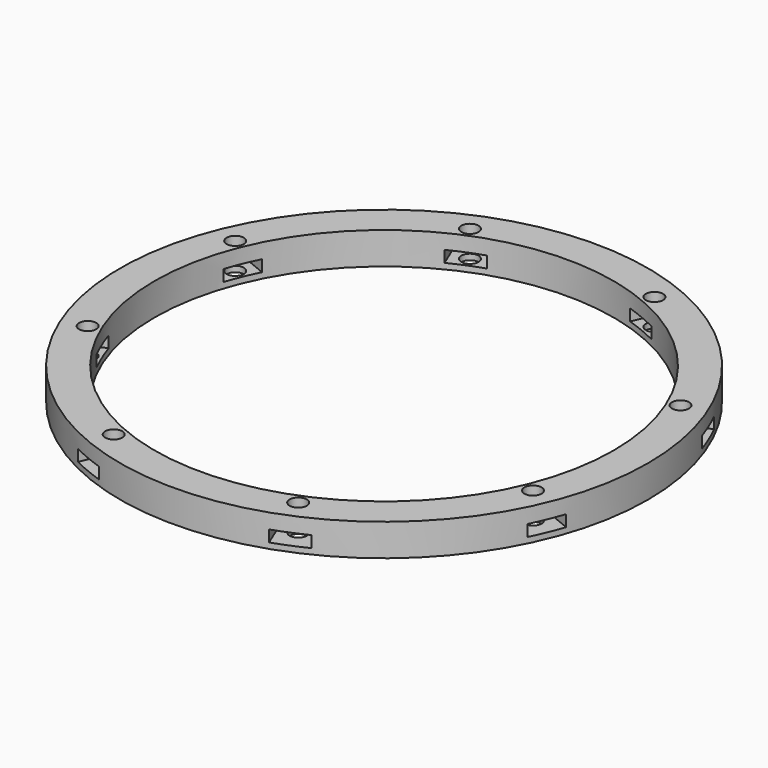
from build123d import *

# Parameters (mm, degrees)
BOX572_W                     = 6
BOX572_H                     = 8
BOX572_DEPTH                 = 2
BOX572_PLACEMENT_ANGLE       = 45
BOX570_W                     = 6
BOX570_H                     = 8
BOX570_DEPTH                 = 2
BOX569_W                     = 6
BOX569_H                     = 8
BOX569_DEPTH                 = 2
BOX573_W                     = 6
BOX573_H                     = 8
BOX573_DEPTH                 = 2
BOX573_PLACEMENT_ANGLE       = 135
BOX574_W                     = 6
BOX574_H                     = 8
BOX574_DEPTH                 = 2
BOX571_W                     = 6
BOX571_H                     = 8
BOX571_DEPTH                 = 2
BOX571_PLACEMENT_ANGLE       = 225
BOX575_W                     = 6
BOX575_H                     = 8
BOX575_DEPTH                 = 2
BOX568_W                     = 6
BOX568_H                     = 8
BOX568_DEPTH                 = 2
BOX568_PLACEMENT_ANGLE       = 45
COMPOUND948_PLACEMENT_ANGLE  = 22.5
CYLINDER1361_R               = 1.5
CYLINDER1361_DEPTH           = 32
CYLINDER1361_PLACEMENT_ANGLE = 45
CYLINDER1364_R               = 1.5
CYLINDER1364_DEPTH           = 32
CYLINDER1362_R               = 1.5
CYLINDER1362_DEPTH           = 32
CYLINDER1362_PLACEMENT_ANGLE = 135
CYLINDER1360_R               = 1.5
CYLINDER1360_DEPTH           = 32
CYLINDER1358_R               = 1.5
CYLINDER1358_DEPTH           = 32
CYLINDER1358_PLACEMENT_ANGLE = 225
CYLINDER1363_R               = 1.5
CYLINDER1363_DEPTH           = 32
CYLINDER1357_R               = 1.5
CYLINDER1357_DEPTH           = 32
CYLINDER1357_PLACEMENT_ANGLE = 45
CYLINDER1359_R               = 1.5
CYLINDER1359_DEPTH           = 32
COMPOUND949_PLACEMENT_ANGLE  = 22.5
TUBE124_R                    = 50
TUBE124_R_2                  = 40
TUBE124_DEPTH                = 11
TUBE123_R                    = 46
TUBE123_R_2                  = 40
TUBE123_DEPTH                = 16


with BuildPart() as krychle572:
    # Box572 → Box572 (new body)
    with BuildSketch(Plane.XY):
        with Locations((3, 4)):
            Rectangle(BOX572_W, BOX572_H)
    extrude(amount=BOX572_DEPTH)


with BuildPart() as krychle572_1:
    # Box572 placement: moved
    add(krychle572.part.moved(Location((30.405592, -34.648232, 33))).rotate(Axis((30.405592, -34.648232, 33), (0, 0, 1)), BOX572_PLACEMENT_ANGLE))


with BuildPart() as krychle570:
    # Box570 → Box570 (new body)
    with BuildSketch(Plane(origin=(46, -3, 33), x_dir=(0, 1, 0), z_dir=(0, 0, 1))):
        with Locations((3, 4)):
            Rectangle(BOX570_W, BOX570_H)
    extrude(amount=BOX570_DEPTH)


with BuildPart() as krychle569:
    # Box569 → Box569 (new body)
    with BuildSketch(Plane(origin=(-3, -46, 33), x_dir=(1, 0, 0), z_dir=(0, 0, 1))):
        with Locations((3, 4)):
            Rectangle(BOX569_W, BOX569_H)
    extrude(amount=BOX569_DEPTH)


with BuildPart() as krychle573:
    # Box573 → Box573 (new body)
    with BuildSketch(Plane.XY):
        with Locations((3, 4)):
            Rectangle(BOX573_W, BOX573_H)
    extrude(amount=BOX573_DEPTH)


with BuildPart() as krychle573_1:
    # Box573 placement: moved
    add(krychle573.part.moved(Location((34.648232, 30.405592, 33))).rotate(Axis((34.648232, 30.405592, 33), (0, 0, 1)), BOX573_PLACEMENT_ANGLE))


with BuildPart() as krychle574:
    # Box574 → Box574 (new body)
    with BuildSketch(Plane(origin=(3, 46, 33), x_dir=(-1, 0, 0), z_dir=(0, 0, 1))):
        with Locations((3, 4)):
            Rectangle(BOX574_W, BOX574_H)
    extrude(amount=BOX574_DEPTH)


with BuildPart() as krychle571:
    # Box571 → Box571 (new body)
    with BuildSketch(Plane.XY):
        with Locations((3, 4)):
            Rectangle(BOX571_W, BOX571_H)
    extrude(amount=BOX571_DEPTH)


with BuildPart() as krychle571_1:
    # Box571 placement: moved
    add(krychle571.part.moved(Location((-30.405592, 34.648232, 33))).rotate(Axis((-30.405592, 34.648232, 33), (0, 0, 1)), BOX571_PLACEMENT_ANGLE))


with BuildPart() as krychle575:
    # Box575 → Box575 (new body)
    with BuildSketch(Plane(origin=(-46, 3, 33), x_dir=(0, -1, 0), z_dir=(0, 0, 1))):
        with Locations((3, 4)):
            Rectangle(BOX575_W, BOX575_H)
    extrude(amount=BOX575_DEPTH)


with BuildPart() as compound948:
    # Box568 → Box568 (new body)
    with BuildSketch(Plane.XY):
        with Locations((3, 4)):
            Rectangle(BOX568_W, BOX568_H)
    extrude(amount=BOX568_DEPTH)


with BuildPart() as compound948_1:
    # Box568 placement: moved
    add(compound948.part.moved(Location((-34.648232, -30.405592, 33))).rotate(Axis((-34.648232, -30.405592, 33), (0, 0, -1)), BOX568_PLACEMENT_ANGLE))

    # Compound948: union Krychle572, Krychle570, Krychle569, Krychle573, Krychle574, Krychle571, Krychle575
    add(krychle572_1.part)
    add(krychle570.part)
    add(krychle569.part)
    add(krychle573_1.part)
    add(krychle574.part)
    add(krychle571_1.part)
    add(krychle575.part)


with BuildPart() as compound948_2:
    # Compound948 placement: moved
    add(compound948_1.part.moved(Location((0, 0, 4.4))).rotate(Axis((0, 0, 4.4), (0, 0, 1)), COMPOUND948_PLACEMENT_ANGLE))


with BuildPart() as obj1:
    # Cylinder1361 → Cylinder1361 (new body)
    with BuildSketch(Plane.XY):
        Circle(CYLINDER1361_R)
    extrude(amount=CYLINDER1361_DEPTH)


with BuildPart() as obj1_1:
    # Cylinder1361 placement: moved
    add(obj1.part.moved(Location((29.698485, -29.698485, 33.5))).rotate(Axis((29.698485, -29.698485, 33.5), (0, 0, 1)), CYLINDER1361_PLACEMENT_ANGLE))


with BuildPart() as obj2:
    # Cylinder1364 → Cylinder1364 (new body)
    with BuildSketch(Plane(origin=(42, 0, 33.5), x_dir=(0, 1, 0), z_dir=(0, 0, 1))):
        Circle(CYLINDER1364_R)
    extrude(amount=CYLINDER1364_DEPTH)


with BuildPart() as obj3:
    # Cylinder1362 → Cylinder1362 (new body)
    with BuildSketch(Plane.XY):
        Circle(CYLINDER1362_R)
    extrude(amount=CYLINDER1362_DEPTH)


with BuildPart() as obj3_1:
    # Cylinder1362 placement: moved
    add(obj3.part.moved(Location((29.698485, 29.698485, 33.5))).rotate(Axis((29.698485, 29.698485, 33.5), (0, 0, 1)), CYLINDER1362_PLACEMENT_ANGLE))


with BuildPart() as obj4:
    # Cylinder1360 → Cylinder1360 (new body)
    with BuildSketch(Plane(origin=(0, 42, 33.5), x_dir=(-1, 0, 0), z_dir=(0, 0, 1))):
        Circle(CYLINDER1360_R)
    extrude(amount=CYLINDER1360_DEPTH)


with BuildPart() as obj5:
    # Cylinder1358 → Cylinder1358 (new body)
    with BuildSketch(Plane.XY):
        Circle(CYLINDER1358_R)
    extrude(amount=CYLINDER1358_DEPTH)


with BuildPart() as obj5_1:
    # Cylinder1358 placement: moved
    add(obj5.part.moved(Location((-29.698485, 29.698485, 33.5))).rotate(Axis((-29.698485, 29.698485, 33.5), (0, 0, 1)), CYLINDER1358_PLACEMENT_ANGLE))


with BuildPart() as obj6:
    # Cylinder1363 → Cylinder1363 (new body)
    with BuildSketch(Plane(origin=(-42, 0, 33.5), x_dir=(0, -1, 0), z_dir=(0, 0, 1))):
        Circle(CYLINDER1363_R)
    extrude(amount=CYLINDER1363_DEPTH)


with BuildPart() as obj7:
    # Cylinder1357 → Cylinder1357 (new body)
    with BuildSketch(Plane.XY):
        Circle(CYLINDER1357_R)
    extrude(amount=CYLINDER1357_DEPTH)


with BuildPart() as obj7_1:
    # Cylinder1357 placement: moved
    add(obj7.part.moved(Location((-29.698485, -29.698485, 33.5))).rotate(Axis((-29.698485, -29.698485, 33.5), (0, 0, -1)), CYLINDER1357_PLACEMENT_ANGLE))


with BuildPart() as compound949:
    # Cylinder1359 → Cylinder1359 (new body)
    with BuildSketch(Plane(origin=(0, -42, 33.5), x_dir=(1, 0, 0), z_dir=(0, 0, 1))):
        Circle(CYLINDER1359_R)
    extrude(amount=CYLINDER1359_DEPTH)

    # Compound949: union obj1, obj2, obj3, obj4, obj5, obj6, obj7
    add(obj1_1.part)
    add(obj2.part)
    add(obj3_1.part)
    add(obj4.part)
    add(obj5_1.part)
    add(obj6.part)
    add(obj7_1.part)


with BuildPart() as compound949_1:
    # Compound949 placement: moved
    add(compound949.part.rotate(Axis((0, 0, 0), (0, 0, 1)), COMPOUND949_PLACEMENT_ANGLE))


with BuildPart() as tube124:
    # Tube124 → Tube124 (new body)
    with BuildSketch(Plane.XY.offset(25.4)):
        Circle(TUBE124_R)
        Circle(TUBE124_R_2, mode=Mode.SUBTRACT)
    extrude(amount=TUBE124_DEPTH)


with BuildPart() as cut496:
    # Tube123 → Tube123 (new body)
    with BuildSketch(Plane.XY.offset(26)):
        Circle(TUBE123_R)
        Circle(TUBE123_R_2, mode=Mode.SUBTRACT)
    extrude(amount=TUBE123_DEPTH)

    # Cut493: cut Tube124
    add(tube124.part, mode=Mode.SUBTRACT)

    # Cut495: cut Compound949
    add(compound949_1.part, mode=Mode.SUBTRACT)

    # Cut496: cut Compound948
    add(compound948_2.part, mode=Mode.SUBTRACT)


with BuildPart() as cut496_1:
    # Cut496 placement: moved
    add(cut496.part.moved(Location((0, 0, 3))))


solid = cut496_1.part
